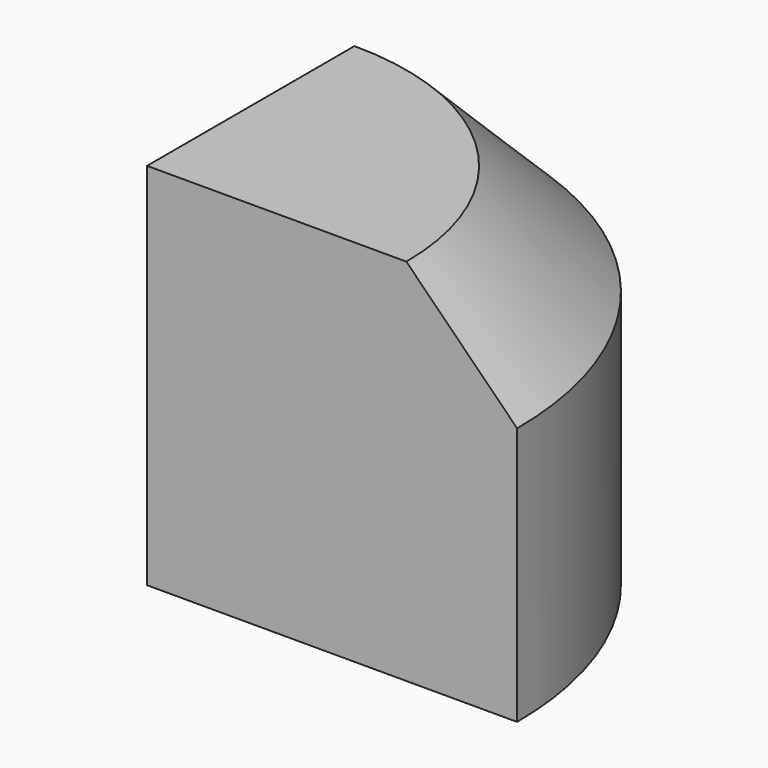
from build123d import *

# Parameters (mm, degrees)
F1_DEPTH = 25.4
F2_SIZE  = 7.62


with BuildPart() as f1:
    # F0 (on Top) → F1 (new body)
    with BuildSketch(Plane.XY):
        with BuildLine():
            Line((0, 0), (25.458083, 0))
            ThreePointArc((25.458083, 0), (18.001583, 18.001583), (0, 25.458083))
            Line((0, 25.458083), (0, 0))
        make_face()
    extrude(amount=F1_DEPTH)

    # F2
    f2_edges = [f1.edges().sort_by_distance(p)[0] for p in [
        (18.001583, 18.001583, 25.4),
    ]]
    chamfer(f2_edges, length=F2_SIZE)


solid = f1.part
